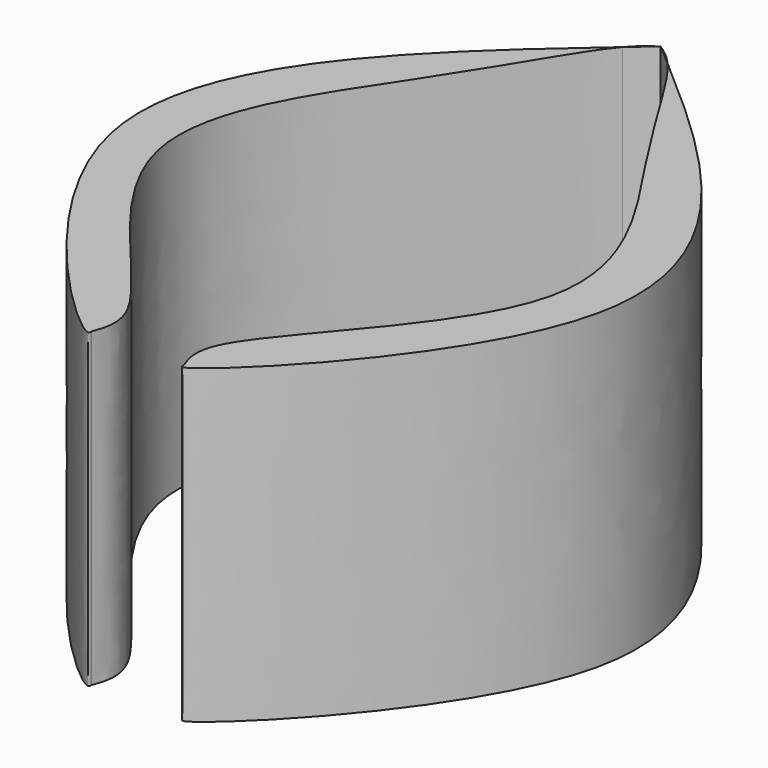
from build123d import *

# Parameters (mm, degrees)
F1_DEPTH = 25.4


with BuildPart() as f1:
    # F0 (on Top) → F1 (new body)
    with BuildSketch(Plane.XY):
        with BuildLine():
            add(Edge.make_bspline(
                [(-3.7579423769, -53.3547353565), (-3.370457975, -52.3431925798), (-2.2307136518, -48.6091596866), (-22.7083935356, -31.2772210218), (-8.7878689347, -13.2919078478), (-3.4910903784, -3.5148630553), (-1.8507127268, -1.5906450197)],
                knots=[0.0078968627, 0.0078968627, 0.0078968627, 0.0078968627, 0.1199486261, 0.4081798355, 0.6827886283, 0.9042429926, 0.9042429926, 0.9042429926, 0.9042429926], degree=3))
            add(Edge.make_bspline(
                [(-1.8507127268, -1.5906450197), (-12.4612775627, -10.7373034613), (-31.4142116291, -28.4180189243), (-4.8924818793, -53.6630638335), (-3.840545658, -53.5682663321)],
                knots=[0.0280553669, 0.0280553669, 0.0280553669, 0.0280553669, 0.511801524, 0.9516625378, 0.9516625378, 0.9516625378, 0.9516625378], degree=3))
            add(Edge.make_bspline(
                [(-3.840545658, -53.5682663321), (-3.8128983, -53.4971450464), (-3.7852503909, -53.426023966), (-3.7579423769, -53.3547353565)],
                knots=[0, 0, 0, 0, 0.0078968627, 0.0078968627, 0.0078968627, 0.0078968627], degree=3))
        make_face()
        with BuildLine():
            add(Edge.make_bspline(
                [(-3.840545658, -53.5682663321), (-3.8128983, -53.4971450464), (-3.7852503909, -53.426023966), (-3.7579423769, -53.3547353565)],
                knots=[0, 0, 0, 0, 0.0078968627, 0.0078968627, 0.0078968627, 0.0078968627], degree=3))
            add(Edge.make_bspline(
                [(-3.840545658, -53.5682663321), (-3.7525739328, -53.5603385704), (-3.7455812113, -53.4676641407), (-3.7579423769, -53.3547353565)],
                knots=[0.9516625378, 0.9516625378, 0.9516625378, 0.9516625378, 0.9884474031, 0.9884474031, 0.9884474031, 0.9884474031], degree=3))
        make_face()
    extrude(amount=F1_DEPTH)


with BuildPart() as f1b:
    # F0 (on Top) → F1, piece 2 (new body)
    with BuildSketch(Plane.XY):
        with BuildLine():
            add(Edge.make_bspline(
                [(1.8507127268, -1.5906450197), (1.1414123911, -0.7586119221), (0.5675215582, -0.3828773849), (0, 0)],
                knots=[0.9042429926, 0.9042429926, 0.9042429926, 0.9042429926, 1, 1, 1, 1], degree=3))
            add(Edge.make_bspline(
                [(0, 0), (0.6176709325, -0.5300874741), (1.235341865, -1.0601749481), (1.8507127268, -1.5906450197)],
                knots=[0, 0, 0, 0, 0.0280553669, 0.0280553669, 0.0280553669, 0.0280553669], degree=3))
        make_face()
    extrude(amount=F1_DEPTH)


with BuildPart() as f1c:
    # F0 (on Top) → F1, piece 3 (new body)
    with BuildSketch(Plane.XY):
        with BuildLine():
            add(Edge.make_bspline(
                [(1.8507127268, -1.5906450197), (12.4612775627, -10.7373034613), (31.4142116291, -28.4180189243), (4.8924818793, -53.6630638335), (3.840545658, -53.5682663321)],
                knots=[0.0280553669, 0.0280553669, 0.0280553669, 0.0280553669, 0.511801524, 0.9516625378, 0.9516625378, 0.9516625378, 0.9516625378], degree=3))
            add(Edge.make_bspline(
                [(3.7579423769, -53.3547353565), (3.370457975, -52.3431925798), (2.2307136518, -48.6091596866), (22.7083935356, -31.2772210218), (8.7878689347, -13.2919078478), (3.4910903784, -3.5148630553), (1.8507127268, -1.5906450197)],
                knots=[0.0078968627, 0.0078968627, 0.0078968627, 0.0078968627, 0.1199486261, 0.4081798355, 0.6827886283, 0.9042429926, 0.9042429926, 0.9042429926, 0.9042429926], degree=3))
            add(Edge.make_bspline(
                [(3.840545658, -53.5682663321), (3.8128983, -53.4971450464), (3.7852503909, -53.426023966), (3.7579423769, -53.3547353565)],
                knots=[0, 0, 0, 0, 0.0078968627, 0.0078968627, 0.0078968627, 0.0078968627], degree=3))
        make_face()
        with BuildLine():
            add(Edge.make_bspline(
                [(3.840545658, -53.5682663321), (3.7525739328, -53.5603385704), (3.7455812113, -53.4676641407), (3.7579423769, -53.3547353565)],
                knots=[0.9516625378, 0.9516625378, 0.9516625378, 0.9516625378, 0.9884474031, 0.9884474031, 0.9884474031, 0.9884474031], degree=3))
            add(Edge.make_bspline(
                [(3.840545658, -53.5682663321), (3.8128983, -53.4971450464), (3.7852503909, -53.426023966), (3.7579423769, -53.3547353565)],
                knots=[0, 0, 0, 0, 0.0078968627, 0.0078968627, 0.0078968627, 0.0078968627], degree=3))
        make_face()
    extrude(amount=F1_DEPTH)


with BuildPart() as f1d:
    # F0 (on Top) → F1, piece 4 (new body)
    with BuildSketch(Plane.XY):
        with BuildLine():
            add(Edge.make_bspline(
                [(0, 0), (-0.6176709325, -0.5300874741), (-1.235341865, -1.0601749481), (-1.8507127268, -1.5906450197)],
                knots=[0, 0, 0, 0, 0.0280553669, 0.0280553669, 0.0280553669, 0.0280553669], degree=3))
            add(Edge.make_bspline(
                [(-1.8507127268, -1.5906450197), (-1.1414123911, -0.7586119221), (-0.5675215582, -0.3828773849), (0, 0)],
                knots=[0.9042429926, 0.9042429926, 0.9042429926, 0.9042429926, 1, 1, 1, 1], degree=3))
        make_face()
    extrude(amount=F1_DEPTH)


solid = Compound([f1.part, f1b.part, f1c.part, f1d.part])
